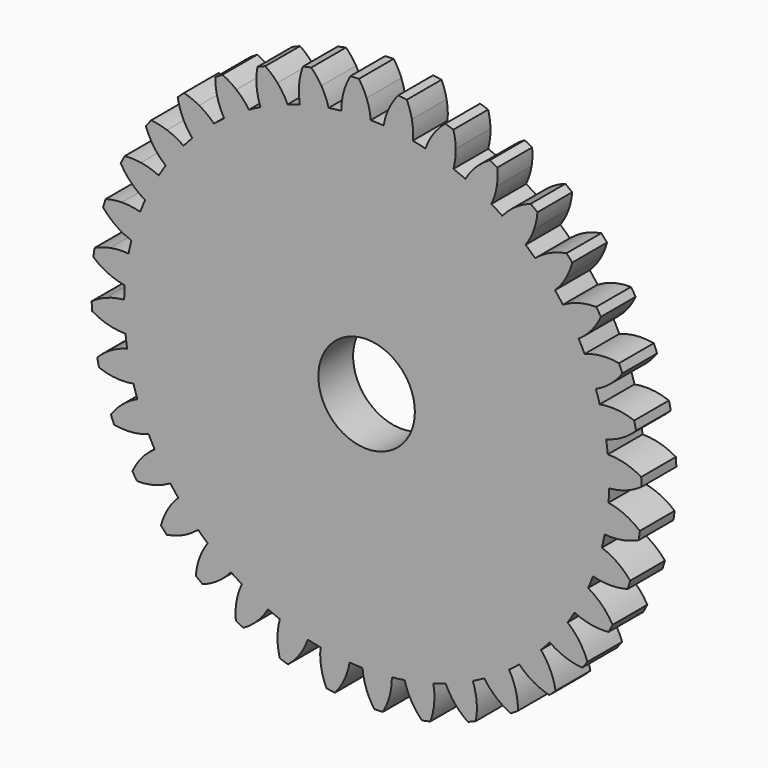
from build123d import *

# Parameters (mm, degrees)
F0_R     = 25
F1_DEPTH = 15
F2_COUNT = 36
F4_SCALE = 0.3
F5_R     = 5
F6_DEPTH = 25.4


with BuildPart() as f1:
    # F0 (on Front) → F1 (new body)
    with BuildSketch(Plane.XZ):
        with BuildLine():
            ThreePointArc((-8.7190556623, 83.2949012146), (-3.6531236918, 83.6702885575), (1.4262480407, 83.7378547404))
            ThreePointArc((1.4262480407, 83.7378547404), (0.9377107983, 86.9200786033), (0, 90))
            ThreePointArc((0, 90), (-1.1760420962, 92.5650071018), (-2.663884374, 94.9626438135))
            ThreePointArc((-2.663884374, 94.9626438135), (-4.1438417997, 94.9095810503), (-5.6227922652, 94.833455105))
            ThreePointArc((-5.6227922652, 94.833455105), (-6.8960050455, 92.3152681261), (-7.8440168473, 89.6575228283))
            ThreePointArc((-7.8440168473, 89.6575228283), (-8.509726536, 86.5075945813), (-8.7190556623, 83.2949012146))
        make_face()
        with BuildLine():
            ThreePointArc((-8.7190556623, 83.2949012146), (-56.0528393049, -62.2265353837), (83.75, 0))
            ThreePointArc((83.75, 0), (59.7223189997, 58.7137727735), (1.4262480407, 83.7378547404))
            ThreePointArc((1.4262480407, 83.7378547404), (-3.6531236918, 83.6702885575), (-8.7190556623, 83.2949012146))
        make_face()
        Circle(F0_R, mode=Mode.SUBTRACT)
        Circle(F0_R)
    extrude(amount=F1_DEPTH)


with BuildPart() as f2_1:
    # F2: instance of F1
    add(f1.part.rotate(Axis((0, 0, 0), (0, 1, 0)), 1 * 360 / F2_COUNT))


with BuildPart() as f2_2:
    # F2: instance of F1
    add(f1.part.rotate(Axis((0, 0, 0), (0, 1, 0)), 2 * 360 / F2_COUNT))


with BuildPart() as f2_3:
    # F2: instance of F1
    add(f1.part.rotate(Axis((0, 0, 0), (0, 1, 0)), 3 * 360 / F2_COUNT))


with BuildPart() as f2_4:
    # F2: instance of F1
    add(f1.part.rotate(Axis((0, 0, 0), (0, 1, 0)), 4 * 360 / F2_COUNT))


with BuildPart() as f2_5:
    # F2: instance of F1
    add(f1.part.rotate(Axis((0, 0, 0), (0, 1, 0)), 5 * 360 / F2_COUNT))


with BuildPart() as f2_6:
    # F2: instance of F1
    add(f1.part.rotate(Axis((0, 0, 0), (0, 1, 0)), 6 * 360 / F2_COUNT))


with BuildPart() as f2_7:
    # F2: instance of F1
    add(f1.part.rotate(Axis((0, 0, 0), (0, 1, 0)), 7 * 360 / F2_COUNT))


with BuildPart() as f2_8:
    # F2: instance of F1
    add(f1.part.rotate(Axis((0, 0, 0), (0, 1, 0)), 8 * 360 / F2_COUNT))


with BuildPart() as f2_9:
    # F2: instance of F1
    add(f1.part.rotate(Axis((0, 0, 0), (0, 1, 0)), 9 * 360 / F2_COUNT))


with BuildPart() as f2_10:
    # F2: instance of F1
    add(f1.part.rotate(Axis((0, 0, 0), (0, 1, 0)), 10 * 360 / F2_COUNT))


with BuildPart() as f2_11:
    # F2: instance of F1
    add(f1.part.rotate(Axis((0, 0, 0), (0, 1, 0)), 11 * 360 / F2_COUNT))


with BuildPart() as f2_12:
    # F2: instance of F1
    add(f1.part.rotate(Axis((0, 0, 0), (0, 1, 0)), 12 * 360 / F2_COUNT))


with BuildPart() as f2_13:
    # F2: instance of F1
    add(f1.part.rotate(Axis((0, 0, 0), (0, 1, 0)), 13 * 360 / F2_COUNT))


with BuildPart() as f2_14:
    # F2: instance of F1
    add(f1.part.rotate(Axis((0, 0, 0), (0, 1, 0)), 14 * 360 / F2_COUNT))


with BuildPart() as f2_15:
    # F2: instance of F1
    add(f1.part.rotate(Axis((0, 0, 0), (0, 1, 0)), 15 * 360 / F2_COUNT))


with BuildPart() as f2_16:
    # F2: instance of F1
    add(f1.part.rotate(Axis((0, 0, 0), (0, 1, 0)), 16 * 360 / F2_COUNT))


with BuildPart() as f2_17:
    # F2: instance of F1
    add(f1.part.rotate(Axis((0, 0, 0), (0, 1, 0)), 17 * 360 / F2_COUNT))


with BuildPart() as f2_18:
    # F2: instance of F1
    add(f1.part.rotate(Axis((0, 0, 0), (0, 1, 0)), 18 * 360 / F2_COUNT))


with BuildPart() as f2_19:
    # F2: instance of F1
    add(f1.part.rotate(Axis((0, 0, 0), (0, 1, 0)), 19 * 360 / F2_COUNT))


with BuildPart() as f2_20:
    # F2: instance of F1
    add(f1.part.rotate(Axis((0, 0, 0), (0, 1, 0)), 20 * 360 / F2_COUNT))


with BuildPart() as f2_21:
    # F2: instance of F1
    add(f1.part.rotate(Axis((0, 0, 0), (0, 1, 0)), 21 * 360 / F2_COUNT))


with BuildPart() as f2_22:
    # F2: instance of F1
    add(f1.part.rotate(Axis((0, 0, 0), (0, 1, 0)), 22 * 360 / F2_COUNT))


with BuildPart() as f2_23:
    # F2: instance of F1
    add(f1.part.rotate(Axis((0, 0, 0), (0, 1, 0)), 23 * 360 / F2_COUNT))


with BuildPart() as f2_24:
    # F2: instance of F1
    add(f1.part.rotate(Axis((0, 0, 0), (0, 1, 0)), 24 * 360 / F2_COUNT))


with BuildPart() as f2_25:
    # F2: instance of F1
    add(f1.part.rotate(Axis((0, 0, 0), (0, 1, 0)), 25 * 360 / F2_COUNT))


with BuildPart() as f2_26:
    # F2: instance of F1
    add(f1.part.rotate(Axis((0, 0, 0), (0, 1, 0)), 26 * 360 / F2_COUNT))


with BuildPart() as f2_27:
    # F2: instance of F1
    add(f1.part.rotate(Axis((0, 0, 0), (0, 1, 0)), 27 * 360 / F2_COUNT))


with BuildPart() as f2_28:
    # F2: instance of F1
    add(f1.part.rotate(Axis((0, 0, 0), (0, 1, 0)), 28 * 360 / F2_COUNT))


with BuildPart() as f2_29:
    # F2: instance of F1
    add(f1.part.rotate(Axis((0, 0, 0), (0, 1, 0)), 29 * 360 / F2_COUNT))


with BuildPart() as f2_30:
    # F2: instance of F1
    add(f1.part.rotate(Axis((0, 0, 0), (0, 1, 0)), 30 * 360 / F2_COUNT))


with BuildPart() as f2_31:
    # F2: instance of F1
    add(f1.part.rotate(Axis((0, 0, 0), (0, 1, 0)), 31 * 360 / F2_COUNT))


with BuildPart() as f2_32:
    # F2: instance of F1
    add(f1.part.rotate(Axis((0, 0, 0), (0, 1, 0)), 32 * 360 / F2_COUNT))


with BuildPart() as f2_33:
    # F2: instance of F1
    add(f1.part.rotate(Axis((0, 0, 0), (0, 1, 0)), 33 * 360 / F2_COUNT))


with BuildPart() as f2_34:
    # F2: instance of F1
    add(f1.part.rotate(Axis((0, 0, 0), (0, 1, 0)), 34 * 360 / F2_COUNT))


with BuildPart() as f2_35:
    # F2: instance of F1
    add(f1.part.rotate(Axis((0, 0, 0), (0, 1, 0)), 35 * 360 / F2_COUNT))


with BuildPart() as f2_11_1:
    add(f2_11.part)

    # F3: union F2_1, F2_22, F2_28, F2_32, F2_31, F2_10, F2_17, F2_23, F2_18, F2_29, F2_30, F2_15, F2_33, F2_12, F2_21, F2_34, F2_16, F1, F2_24, F2_27, F2_20, F2_14, F2_25, F2_26, F2_35, F2_9, F2_19, F2_6, F2_3, F2_13, F2_7, F2_5, F2_8, F2_4, F2_2
    add(f2_1.part)
    add(f2_22.part)
    add(f2_28.part)
    add(f2_32.part)
    add(f2_31.part)
    add(f2_10.part)
    add(f2_17.part)
    add(f2_23.part)
    add(f2_18.part)
    add(f2_29.part)
    add(f2_30.part)
    add(f2_15.part)
    add(f2_33.part)
    add(f2_12.part)
    add(f2_21.part)
    add(f2_34.part)
    add(f2_16.part)
    add(f1.part)
    add(f2_24.part)
    add(f2_27.part)
    add(f2_20.part)
    add(f2_14.part)
    add(f2_25.part)
    add(f2_26.part)
    add(f2_35.part)
    add(f2_9.part)
    add(f2_19.part)
    add(f2_6.part)
    add(f2_3.part)
    add(f2_13.part)
    add(f2_7.part)
    add(f2_5.part)
    add(f2_8.part)
    add(f2_4.part)
    add(f2_2.part)


with BuildPart() as f2_11_2:
    # F4: moved
    add(f2_11_1.part.scale(F4_SCALE))

    # F5 (on face) → F6 (cut)
    with BuildSketch(Plane.XZ.offset(4.5)):
        Circle(F5_R)
    extrude(amount=-F6_DEPTH, mode=Mode.SUBTRACT)


solid = f2_11_2.part
